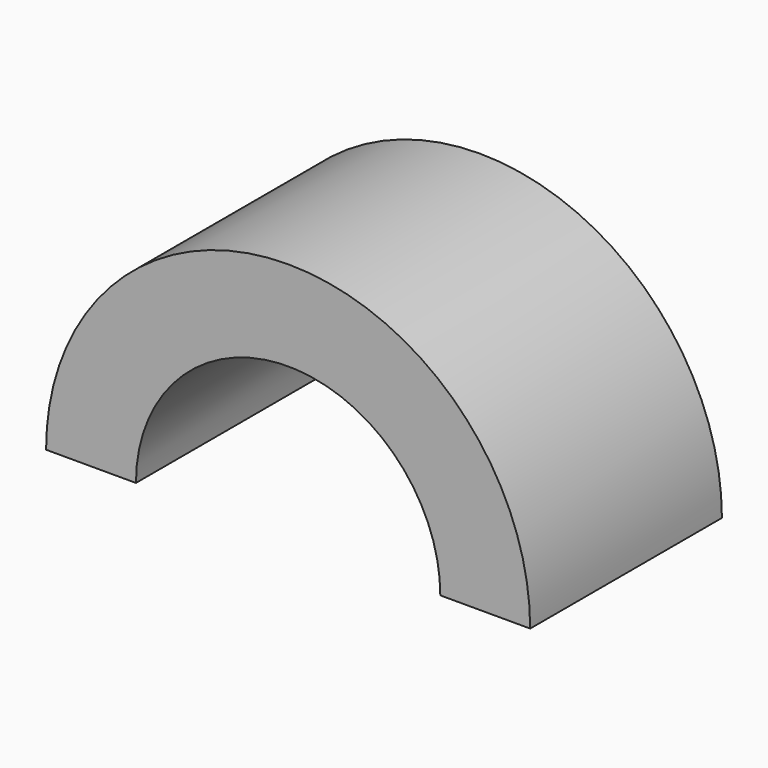
from build123d import *

# Parameters (mm, degrees)
F1_DEPTH = 40
F3_DEPTH = 40


with BuildPart() as f1:
    # F0 (on Front) → F1 (new body)
    with BuildSketch(Plane.XZ):
        with BuildLine():
            Line((-40.4, 0), (40.4, 0))
            ThreePointArc((40.4, 0), (0, 40.4), (-40.4, 0))
        make_face()
    extrude(amount=F1_DEPTH)

    # F2 (on face) → F3 (cut)
    with BuildSketch(Plane.XZ.offset(40)):
        with BuildLine():
            Line((-25.4, 0), (25.4, 0))
            ThreePointArc((25.4, 0), (0, 25.4), (-25.4, 0))
        make_face()
        with BuildLine():
            ThreePointArc((-25.4, 0), (0, -25.4), (25.4, 0))
            Line((25.4, 0), (-25.4, 0))
        make_face()
    extrude(amount=-F3_DEPTH, mode=Mode.SUBTRACT)


solid = f1.part
